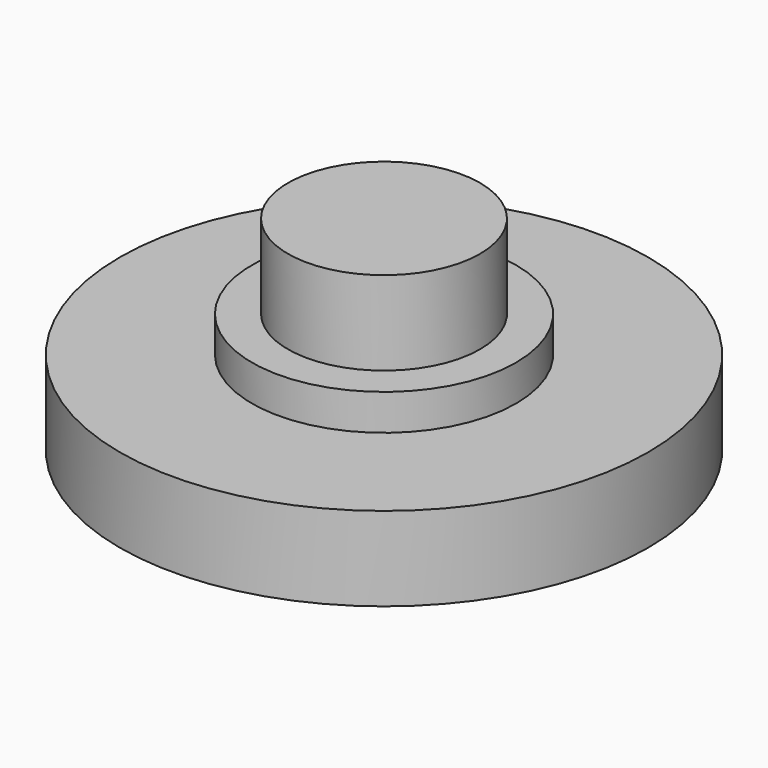
from build123d import *

# Parameters (mm, degrees)
F0_R     = 4
F1_DEPTH = 5
F0_R_2   = 11
F0_R_3   = 5.5
F2_DEPTH = 3.5
F5_DEPTH = 1.5


with BuildPart() as f1:
    # F0 (on Top) → F1 (new body)
    with BuildSketch(Plane.XY):
        Circle(F0_R)
    extrude(amount=F1_DEPTH)

    # F0 (on Top) → F2 (join)
    with BuildSketch(Plane.XY):
        Circle(F0_R_2)
        Circle(F0_R_3, mode=Mode.SUBTRACT)
        Circle(F0_R_3)
        Circle(F0_R, mode=Mode.SUBTRACT)
        Circle(F0_R)
    extrude(amount=-F2_DEPTH)

    # F3 (on Right) → F4 (revolve, cut)
    with BuildSketch(Plane.YZ):
        with BuildLine():
            Line((0, -33.02), (0, -2.286))
            ThreePointArc((0, -2.286), (-30.734, -33.02), (0, -63.754))
            Line((0, -63.754), (0, -33.02))
        make_face()
    revolve(axis=Axis((0, 0, -16.51), (0, 0, 1)), mode=Mode.SUBTRACT)

    # F0 (on Top) → F5 (join)
    with BuildSketch(Plane.XY):
        Circle(F0_R_3)
        Circle(F0_R, mode=Mode.SUBTRACT)
    extrude(amount=F5_DEPTH)


solid = f1.part
